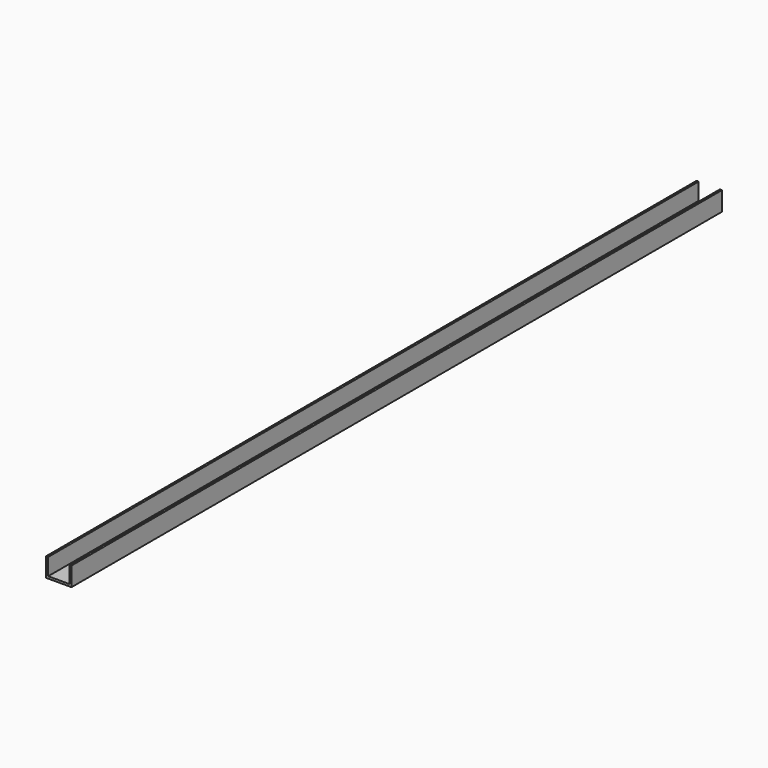
from build123d import *

# Parameters (mm, degrees)
F0_W     = 3.175
F0_H     = 25.4
F1_DEPTH = 1219.2
F3_D     = 8.4328


with BuildPart() as f1:
    # F0 (on Front) → F1 (new body)
    with BuildSketch(Plane.XZ):
        with Locations((-17.4625, 14.2875)):
            Rectangle(F0_W, F0_H)
        with Locations((17.4625, 14.2875)):
            Rectangle(F0_W, F0_H)
        Polygon((-19.05, -1.5875), (19.05, -1.5875), (19.05, 1.5875), (15.875, 1.5875), (-15.875, 1.5875), (-19.05, 1.5875), align=None)
    extrude(amount=F1_DEPTH)

    # F3 (through all)
    with Locations(Plane.XY.offset(1.5875)):
        with Locations((0, -26.2155216187), (0, -80.6770920753), (0, -140.1309669018), (0, -202.7617692947)):
            Hole(F3_D / 2)


solid = f1.part
